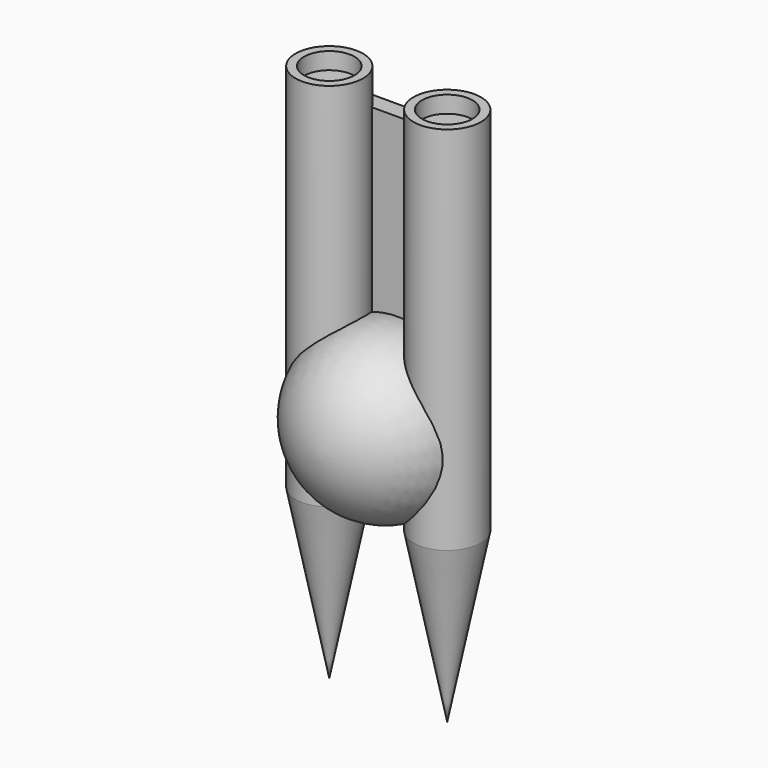
from build123d import *

# Parameters (mm, degrees)
CYLINDER_R             = 2
CYLINDER_DEPTH         = 20
CYLINDER002_R          = 1.5
CYLINDER002_DEPTH      = 1
CYLINDER001_R          = 2
CYLINDER001_DEPTH      = 2
CYLINDER003_R          = 2
CYLINDER003_DEPTH      = 20
BOX_W                  = 7
BOX_H                  = 1
BOX_DEPTH              = 20
SPHERE_ROLL_ANGLE      = -111.335427
SPHERE_PITCH_ANGLE     = 89.06846
SPHERE_PLACEMENT_ANGLE = -21.625547


with BuildPart() as cylinder:
    # Cylinder → Cylinder (new body)
    with BuildSketch(Plane.XY):
        Circle(CYLINDER_R)
    extrude(amount=CYLINDER_DEPTH)


with BuildPart() as cone:
    # Cone → Cone (revolve)
    with BuildSketch(Plane(origin=(0, 0, -10), x_dir=(1, 0, 0), z_dir=(0, -1, 0))):
        Polygon((0, 0), (2, 10), (0, 10), align=None)
    revolve(axis=Axis((0, 0, -10), (0, 0, 1)))


with BuildPart() as cylinder002:
    # Cylinder002 → Cylinder002 (new body)
    with BuildSketch(Plane(origin=(1, 11, 10), x_dir=(1, 0, 0), z_dir=(0, 0, 1))):
        Circle(CYLINDER002_R)
    extrude(amount=CYLINDER002_DEPTH)


with BuildPart() as cylinder001:
    # Cylinder001 → Cylinder001 (new body)
    with BuildSketch(Plane(origin=(1, 11, 9), x_dir=(1, 0, 0), z_dir=(0, 0, 1))):
        Circle(CYLINDER001_R)
    extrude(amount=CYLINDER001_DEPTH)


with BuildPart() as fusion:
    # Cut base: copy of Cylinder001
    add(cylinder001.part)

    # Cut: cut Cylinder002
    add(cylinder002.part, mode=Mode.SUBTRACT)


with BuildPart() as fusion_1:
    # Cut placement: moved
    add(fusion.part.moved(Location((-1, -11, 11))))

    # Fusion: union Cylinder, Cone
    add(cylinder.part)
    add(cone.part)


with BuildPart() as cylinder003:
    # Cylinder003 → Cylinder003 (new body)
    with BuildSketch(Plane.XY):
        Circle(CYLINDER003_R)
    extrude(amount=CYLINDER003_DEPTH)


with BuildPart() as cone001:
    # Cone001 → Cone001 (revolve)
    with BuildSketch(Plane(origin=(0, 0, -10), x_dir=(1, 0, 0), z_dir=(0, -1, 0))):
        Polygon((0, 0), (2, 10), (0, 10), align=None)
    revolve(axis=Axis((0, 0, -10), (0, 0, 1)))


with BuildPart() as fusion001:
    # Cut001 base: copy of Cylinder001
    add(cylinder001.part)

    # Cut001: cut Cylinder002
    add(cylinder002.part, mode=Mode.SUBTRACT)


with BuildPart() as fusion001_1:
    # Cut001 placement: moved
    add(fusion001.part.moved(Location((-1, -11, 11))))

    # Fusion001: union Cylinder003, Cone001
    add(cylinder003.part)
    add(cone001.part)


with BuildPart() as fusion001_2:
    # Fusion001 placement: moved
    add(fusion001_1.part.moved(Location((-7, 0, 0))))


with BuildPart() as cube:
    # Box → Box (new body)
    with BuildSketch(Plane(origin=(-7, 1, 0), x_dir=(1, 0, 0), z_dir=(0, 0, 1))):
        with Locations((3.5, 0.5)):
            Rectangle(BOX_W, BOX_H)
    extrude(amount=BOX_DEPTH)


with BuildPart() as sphere:
    # Sphere → Sphere (revolve)
    with BuildSketch(Plane.XZ):
        with BuildLine():
            ThreePointArc((0, -5), (3.830222, -3.213938), (4.924039, 0.868241))
            Line((4.924039, 0.868241), (0, 0.868241))
            Line((0, 0.868241), (0, -5))
        make_face()
    revolve(axis=Axis((0, 0, 0), (0, 0, 1)))


with BuildPart() as sphere_1:
    # Sphere roll: moved
    add(sphere.part.rotate(Axis((0, 0, 0), (1, 0, 0)), SPHERE_ROLL_ANGLE))


with BuildPart() as sphere_2:
    # Sphere pitch: moved
    add(sphere_1.part.rotate(Axis((0, 0, 0), (0, 1, 0)), SPHERE_PITCH_ANGLE))


with BuildPart() as sphere_3:
    # Sphere placement: moved
    add(sphere_2.part.moved(Location((-3.636727, -0.029406, 4.725869))).rotate(Axis((-3.636727, -0.029406, 4.725869), (0, 0, 1)), SPHERE_PLACEMENT_ANGLE))


solid = Compound([fusion_1.part, fusion001_2.part, cube.part, sphere_3.part])
